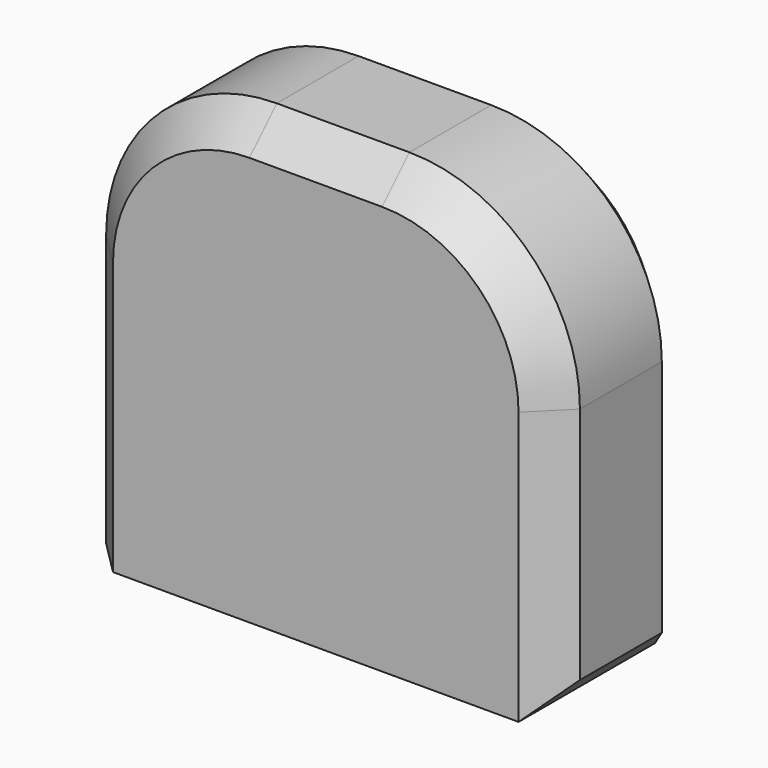
from build123d import *

# Parameters (mm, degrees)
F0_W     = 70.552204
F0_H     = 66.001866
F1_DEPTH = 25.4
F2_R     = 25.4
F3_SIZE  = 5.08


with BuildPart() as f1:
    # F0 (on Front) → F1 (new body)
    with BuildSketch(Plane.XZ):
        with Locations((35.276102, -33.000933)):
            Rectangle(F0_W, F0_H)
    extrude(amount=F1_DEPTH)

    # F2
    f2_edges = [f1.edges().sort_by_distance(p)[0] for p in [
        (70.552204, -12.7, 0),
        (0, -12.7, 0),
    ]]
    fillet(f2_edges, radius=F2_R)

    # F3
    f3_edges = [f1.edges().sort_by_distance(p)[0] for p in [
        (70.552204, 0, -45.700933),
        (70.552204, -12.7, -25.4),
        (70.552204, -12.7, -66.001866),
        (70.552204, -25.4, -45.700933),
    ]]
    chamfer(f3_edges, length=F3_SIZE)


solid = f1.part
